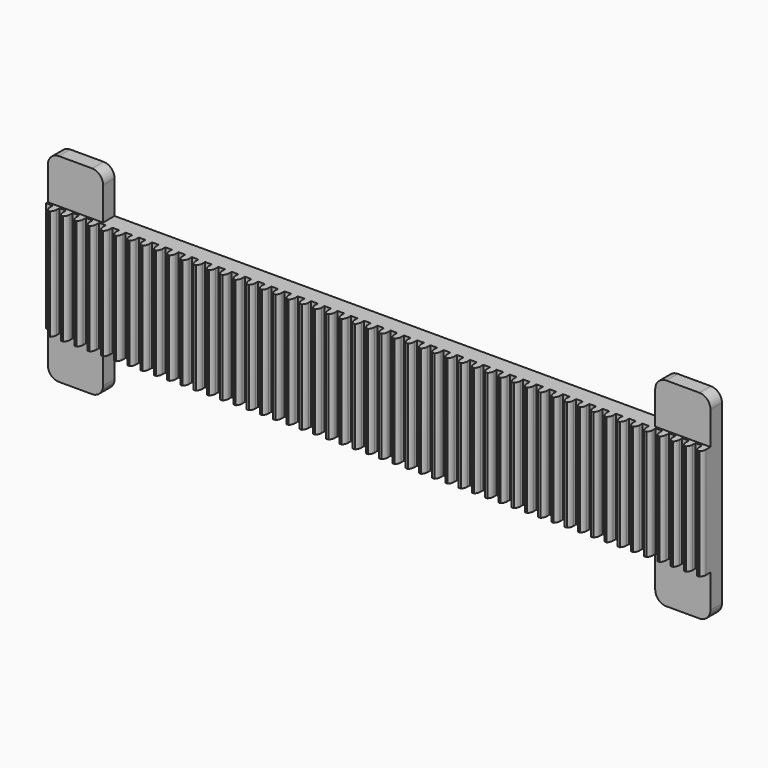
from build123d import *

# Parameters (mm, degrees)
F1_DEPTH = 19.05
F3_W     = 63.5
F3_H     = 50.8
F4_DEPTH = 2.54
F5_W     = 63.5
F5_H     = 50.8
F6_DEPTH = 2.54
F7_R     = 12.7
F9_DEPTH = 127


with BuildPart() as f1:
    # F0 (on Front) → F1 (new body)
    with BuildSketch(Plane.XZ):
        Polygon((0, 228.6), (0, 0), (63.5, 0), (63.5, 50.8), (698.5, 50.8), (698.5, 0), (762, 0), (762, 228.6), (698.5, 228.6), (698.5, 177.8), (63.5, 177.8), (63.5, 228.6), align=None)
    extrude(amount=F1_DEPTH)

    # F3 (on face) → F4 (cut)
    with BuildSketch(Plane.XZ.offset(19.05)):
        with Locations((31.75, 25.4)):
            Rectangle(F3_W, F3_H)
        Polygon((63.5, 228.6), (0, 228.6), (0, 177.8), (7.62, 177.8), (15.24, 177.8), (22.86, 177.8), (30.48, 177.8), (38.1, 177.8), (45.72, 177.8), (53.34, 177.8), (60.96, 177.8), (63.5, 177.8), align=None)
    extrude(amount=-F4_DEPTH, mode=Mode.SUBTRACT)

    # F5 (on face) → F6 (cut)
    with BuildSketch(Plane.XZ.offset(19.05)):
        with Locations((730.25, 203.2)):
            Rectangle(F5_W, F5_H)
        Polygon((762, 0), (762, 50.8), (701.04, 50.8), (698.5, 50.8), (698.5, 0), align=None)
    extrude(amount=-F6_DEPTH, mode=Mode.SUBTRACT)

    # F7
    f7_edges = [f1.edges().sort_by_distance(p)[0] for p in [
        (63.5, -8.255, 228.6),
        (0, -8.255, 228.6),
        (63.5, -8.255, 0),
        (0, -8.255, 0),
        (762, -8.255, 228.6),
        (698.5, -8.255, 228.6),
        (762, -8.255, 0),
        (698.5, -8.255, 0),
    ]]
    fillet(f7_edges, radius=F7_R)

    # F8 (on face) → F9 (join)
    with BuildSketch(Plane(origin=(0, 0, 50.8), x_dir=(1, 0, 0), z_dir=(0, 0, -1))):
        with BuildLine():
            Line((7.62, 21.393687), (7.62, 19.05))
            Line((7.62, 19.05), (15.24, 19.05))
            Line((15.24, 19.05), (15.24, 21.393687))
            Line((15.24, 21.393687), (15.24, 23.0124))
            ThreePointArc((15.24, 23.0124), (14.557493, 26.377139), (12.617857, 29.21))
            Line((12.617857, 29.21), (11.43, 29.21))
            Line((11.43, 29.21), (10.242143, 29.21))
            ThreePointArc((10.242143, 29.21), (8.302507, 26.377139), (7.62, 23.0124))
            Line((7.62, 23.0124), (7.62, 21.393687))
        make_face()
        with BuildLine():
            ThreePointArc((30.48, 23.0124), (29.797493, 26.377139), (27.857857, 29.21))
            Line((27.857857, 29.21), (25.482143, 29.21))
            ThreePointArc((25.482143, 29.21), (23.542507, 26.377139), (22.86, 23.0124))
            Line((22.86, 23.0124), (22.86, 19.05))
            Line((22.86, 19.05), (30.48, 19.05))
            Line((30.48, 19.05), (30.48, 23.0124))
        make_face()
        with BuildLine():
            ThreePointArc((45.72, 23.0124), (45.037493, 26.377139), (43.097857, 29.21))
            Line((43.097857, 29.21), (40.722143, 29.21))
            ThreePointArc((40.722143, 29.21), (38.782507, 26.377139), (38.1, 23.0124))
            Line((38.1, 23.0124), (38.1, 19.05))
            Line((38.1, 19.05), (45.72, 19.05))
            Line((45.72, 19.05), (45.72, 23.0124))
        make_face()
        with BuildLine():
            ThreePointArc((60.96, 23.0124), (60.277493, 26.377139), (58.337857, 29.21))
            Line((58.337857, 29.21), (55.962143, 29.21))
            ThreePointArc((55.962143, 29.21), (54.022507, 26.377139), (53.34, 23.0124))
            Line((53.34, 23.0124), (53.34, 19.05))
            Line((53.34, 19.05), (60.96, 19.05))
            Line((60.96, 19.05), (60.96, 23.0124))
        make_face()
        with BuildLine():
            ThreePointArc((76.2, 23.0124), (75.517493, 26.377139), (73.577857, 29.21))
            Line((73.577857, 29.21), (71.202143, 29.21))
            ThreePointArc((71.202143, 29.21), (69.262507, 26.377139), (68.58, 23.0124))
            Line((68.58, 23.0124), (68.58, 19.05))
            Line((68.58, 19.05), (76.2, 19.05))
            Line((76.2, 19.05), (76.2, 23.0124))
        make_face()
        with BuildLine():
            ThreePointArc((91.44, 23.0124), (90.757493, 26.377139), (88.817857, 29.21))
            Line((88.817857, 29.21), (86.442143, 29.21))
            ThreePointArc((86.442143, 29.21), (84.502507, 26.377139), (83.82, 23.0124))
            Line((83.82, 23.0124), (83.82, 19.05))
            Line((83.82, 19.05), (91.44, 19.05))
            Line((91.44, 19.05), (91.44, 23.0124))
        make_face()
        with BuildLine():
            ThreePointArc((106.68, 23.0124), (105.997493, 26.377139), (104.057857, 29.21))
            Line((104.057857, 29.21), (101.682143, 29.21))
            ThreePointArc((101.682143, 29.21), (99.742507, 26.377139), (99.06, 23.0124))
            Line((99.06, 23.0124), (99.06, 19.05))
            Line((99.06, 19.05), (106.68, 19.05))
            Line((106.68, 19.05), (106.68, 23.0124))
        make_face()
        with BuildLine():
            ThreePointArc((121.92, 23.0124), (121.237493, 26.377139), (119.297857, 29.21))
            Line((119.297857, 29.21), (116.922143, 29.21))
            ThreePointArc((116.922143, 29.21), (114.982507, 26.377139), (114.3, 23.0124))
            Line((114.3, 23.0124), (114.3, 19.05))
            Line((114.3, 19.05), (121.92, 19.05))
            Line((121.92, 19.05), (121.92, 23.0124))
        make_face()
        with BuildLine():
            ThreePointArc((137.16, 23.0124), (136.477493, 26.377139), (134.537857, 29.21))
            Line((134.537857, 29.21), (132.162143, 29.21))
            ThreePointArc((132.162143, 29.21), (130.222507, 26.377139), (129.54, 23.0124))
            Line((129.54, 23.0124), (129.54, 19.05))
            Line((129.54, 19.05), (137.16, 19.05))
            Line((137.16, 19.05), (137.16, 23.0124))
        make_face()
        with BuildLine():
            ThreePointArc((152.4, 23.0124), (151.717493, 26.377139), (149.777857, 29.21))
            Line((149.777857, 29.21), (147.402143, 29.21))
            ThreePointArc((147.402143, 29.21), (145.462507, 26.377139), (144.78, 23.0124))
            Line((144.78, 23.0124), (144.78, 19.05))
            Line((144.78, 19.05), (152.4, 19.05))
            Line((152.4, 19.05), (152.4, 23.0124))
        make_face()
        with BuildLine():
            ThreePointArc((167.64, 23.0124), (166.957493, 26.377139), (165.017857, 29.21))
            Line((165.017857, 29.21), (162.642143, 29.21))
            ThreePointArc((162.642143, 29.21), (160.702507, 26.377139), (160.02, 23.0124))
            Line((160.02, 23.0124), (160.02, 19.05))
            Line((160.02, 19.05), (167.64, 19.05))
            Line((167.64, 19.05), (167.64, 23.0124))
        make_face()
        with BuildLine():
            ThreePointArc((182.88, 23.0124), (182.197493, 26.377139), (180.257857, 29.21))
            Line((180.257857, 29.21), (177.882143, 29.21))
            ThreePointArc((177.882143, 29.21), (175.942507, 26.377139), (175.26, 23.0124))
            Line((175.26, 23.0124), (175.26, 19.05))
            Line((175.26, 19.05), (182.88, 19.05))
            Line((182.88, 19.05), (182.88, 23.0124))
        make_face()
        with BuildLine():
            ThreePointArc((198.12, 23.0124), (197.437493, 26.377139), (195.497857, 29.21))
            Line((195.497857, 29.21), (193.122143, 29.21))
            ThreePointArc((193.122143, 29.21), (191.182507, 26.377139), (190.5, 23.0124))
            Line((190.5, 23.0124), (190.5, 19.05))
            Line((190.5, 19.05), (198.12, 19.05))
            Line((198.12, 19.05), (198.12, 23.0124))
        make_face()
        with BuildLine():
            ThreePointArc((213.36, 23.0124), (212.677493, 26.377139), (210.737857, 29.21))
            Line((210.737857, 29.21), (208.362143, 29.21))
            ThreePointArc((208.362143, 29.21), (206.422507, 26.377139), (205.74, 23.0124))
            Line((205.74, 23.0124), (205.74, 19.05))
            Line((205.74, 19.05), (213.36, 19.05))
            Line((213.36, 19.05), (213.36, 23.0124))
        make_face()
        with BuildLine():
            ThreePointArc((228.6, 23.0124), (227.917493, 26.377139), (225.977857, 29.21))
            Line((225.977857, 29.21), (223.602143, 29.21))
            ThreePointArc((223.602143, 29.21), (221.662507, 26.377139), (220.98, 23.0124))
            Line((220.98, 23.0124), (220.98, 19.05))
            Line((220.98, 19.05), (228.6, 19.05))
            Line((228.6, 19.05), (228.6, 23.0124))
        make_face()
        with BuildLine():
            ThreePointArc((243.84, 23.0124), (243.157493, 26.377139), (241.217857, 29.21))
            Line((241.217857, 29.21), (238.842143, 29.21))
            ThreePointArc((238.842143, 29.21), (236.902507, 26.377139), (236.22, 23.0124))
            Line((236.22, 23.0124), (236.22, 19.05))
            Line((236.22, 19.05), (243.84, 19.05))
            Line((243.84, 19.05), (243.84, 23.0124))
        make_face()
        with BuildLine():
            ThreePointArc((259.08, 23.0124), (258.397493, 26.377139), (256.457857, 29.21))
            Line((256.457857, 29.21), (254.082143, 29.21))
            ThreePointArc((254.082143, 29.21), (252.142507, 26.377139), (251.46, 23.0124))
            Line((251.46, 23.0124), (251.46, 19.05))
            Line((251.46, 19.05), (259.08, 19.05))
            Line((259.08, 19.05), (259.08, 23.0124))
        make_face()
        with BuildLine():
            ThreePointArc((274.32, 23.0124), (273.637493, 26.377139), (271.697857, 29.21))
            Line((271.697857, 29.21), (269.322143, 29.21))
            ThreePointArc((269.322143, 29.21), (267.382507, 26.377139), (266.7, 23.0124))
            Line((266.7, 23.0124), (266.7, 19.05))
            Line((266.7, 19.05), (274.32, 19.05))
            Line((274.32, 19.05), (274.32, 23.0124))
        make_face()
        with BuildLine():
            ThreePointArc((289.56, 23.0124), (288.877493, 26.377139), (286.937857, 29.21))
            Line((286.937857, 29.21), (284.562143, 29.21))
            ThreePointArc((284.562143, 29.21), (282.622507, 26.377139), (281.94, 23.0124))
            Line((281.94, 23.0124), (281.94, 19.05))
            Line((281.94, 19.05), (289.56, 19.05))
            Line((289.56, 19.05), (289.56, 23.0124))
        make_face()
        with BuildLine():
            ThreePointArc((304.8, 23.0124), (304.117493, 26.377139), (302.177857, 29.21))
            Line((302.177857, 29.21), (299.802143, 29.21))
            ThreePointArc((299.802143, 29.21), (297.862507, 26.377139), (297.18, 23.0124))
            Line((297.18, 23.0124), (297.18, 19.05))
            Line((297.18, 19.05), (304.8, 19.05))
            Line((304.8, 19.05), (304.8, 23.0124))
        make_face()
        with BuildLine():
            ThreePointArc((320.04, 23.0124), (319.357493, 26.377139), (317.417857, 29.21))
            Line((317.417857, 29.21), (315.042143, 29.21))
            ThreePointArc((315.042143, 29.21), (313.102507, 26.377139), (312.42, 23.0124))
            Line((312.42, 23.0124), (312.42, 19.05))
            Line((312.42, 19.05), (320.04, 19.05))
            Line((320.04, 19.05), (320.04, 23.0124))
        make_face()
        with BuildLine():
            ThreePointArc((335.28, 23.0124), (334.597493, 26.377139), (332.657857, 29.21))
            Line((332.657857, 29.21), (330.282143, 29.21))
            ThreePointArc((330.282143, 29.21), (328.342507, 26.377139), (327.66, 23.0124))
            Line((327.66, 23.0124), (327.66, 19.05))
            Line((327.66, 19.05), (335.28, 19.05))
            Line((335.28, 19.05), (335.28, 23.0124))
        make_face()
        with BuildLine():
            ThreePointArc((350.52, 23.0124), (349.837493, 26.377139), (347.897857, 29.21))
            Line((347.897857, 29.21), (345.522143, 29.21))
            ThreePointArc((345.522143, 29.21), (343.582507, 26.377139), (342.9, 23.0124))
            Line((342.9, 23.0124), (342.9, 19.05))
            Line((342.9, 19.05), (350.52, 19.05))
            Line((350.52, 19.05), (350.52, 23.0124))
        make_face()
        with BuildLine():
            ThreePointArc((365.76, 23.0124), (365.077493, 26.377139), (363.137857, 29.21))
            Line((363.137857, 29.21), (360.762143, 29.21))
            ThreePointArc((360.762143, 29.21), (358.822507, 26.377139), (358.14, 23.0124))
            Line((358.14, 23.0124), (358.14, 19.05))
            Line((358.14, 19.05), (365.76, 19.05))
            Line((365.76, 19.05), (365.76, 23.0124))
        make_face()
        with BuildLine():
            ThreePointArc((381, 23.0124), (380.317493, 26.377139), (378.377857, 29.21))
            Line((378.377857, 29.21), (376.002143, 29.21))
            ThreePointArc((376.002143, 29.21), (374.062507, 26.377139), (373.38, 23.0124))
            Line((373.38, 23.0124), (373.38, 19.05))
            Line((373.38, 19.05), (381, 19.05))
            Line((381, 19.05), (381, 23.0124))
        make_face()
        with BuildLine():
            ThreePointArc((396.24, 23.0124), (395.557493, 26.377139), (393.617857, 29.21))
            Line((393.617857, 29.21), (391.242143, 29.21))
            ThreePointArc((391.242143, 29.21), (389.302507, 26.377139), (388.62, 23.0124))
            Line((388.62, 23.0124), (388.62, 19.05))
            Line((388.62, 19.05), (396.24, 19.05))
            Line((396.24, 19.05), (396.24, 23.0124))
        make_face()
        with BuildLine():
            ThreePointArc((411.48, 23.0124), (410.797493, 26.377139), (408.857857, 29.21))
            Line((408.857857, 29.21), (406.482143, 29.21))
            ThreePointArc((406.482143, 29.21), (404.542507, 26.377139), (403.86, 23.0124))
            Line((403.86, 23.0124), (403.86, 19.05))
            Line((403.86, 19.05), (411.48, 19.05))
            Line((411.48, 19.05), (411.48, 23.0124))
        make_face()
        with BuildLine():
            ThreePointArc((426.72, 23.0124), (426.037493, 26.377139), (424.097857, 29.21))
            Line((424.097857, 29.21), (421.722143, 29.21))
            ThreePointArc((421.722143, 29.21), (419.782507, 26.377139), (419.1, 23.0124))
            Line((419.1, 23.0124), (419.1, 19.05))
            Line((419.1, 19.05), (426.72, 19.05))
            Line((426.72, 19.05), (426.72, 23.0124))
        make_face()
        with BuildLine():
            ThreePointArc((441.96, 23.0124), (441.277493, 26.377139), (439.337857, 29.21))
            Line((439.337857, 29.21), (436.962143, 29.21))
            ThreePointArc((436.962143, 29.21), (435.022507, 26.377139), (434.34, 23.0124))
            Line((434.34, 23.0124), (434.34, 19.05))
            Line((434.34, 19.05), (441.96, 19.05))
            Line((441.96, 19.05), (441.96, 23.0124))
        make_face()
        with BuildLine():
            ThreePointArc((457.2, 23.0124), (456.517493, 26.377139), (454.577857, 29.21))
            Line((454.577857, 29.21), (452.202143, 29.21))
            ThreePointArc((452.202143, 29.21), (450.262507, 26.377139), (449.58, 23.0124))
            Line((449.58, 23.0124), (449.58, 19.05))
            Line((449.58, 19.05), (457.2, 19.05))
            Line((457.2, 19.05), (457.2, 23.0124))
        make_face()
        with BuildLine():
            ThreePointArc((472.44, 23.0124), (471.757493, 26.377139), (469.817857, 29.21))
            Line((469.817857, 29.21), (467.442143, 29.21))
            ThreePointArc((467.442143, 29.21), (465.502507, 26.377139), (464.82, 23.0124))
            Line((464.82, 23.0124), (464.82, 19.05))
            Line((464.82, 19.05), (472.44, 19.05))
            Line((472.44, 19.05), (472.44, 23.0124))
        make_face()
        with BuildLine():
            ThreePointArc((487.68, 23.0124), (486.997493, 26.377139), (485.057857, 29.21))
            Line((485.057857, 29.21), (482.682143, 29.21))
            ThreePointArc((482.682143, 29.21), (480.742507, 26.377139), (480.06, 23.0124))
            Line((480.06, 23.0124), (480.06, 19.05))
            Line((480.06, 19.05), (487.68, 19.05))
            Line((487.68, 19.05), (487.68, 23.0124))
        make_face()
        with BuildLine():
            ThreePointArc((502.92, 23.0124), (502.237493, 26.377139), (500.297857, 29.21))
            Line((500.297857, 29.21), (497.922143, 29.21))
            ThreePointArc((497.922143, 29.21), (495.982507, 26.377139), (495.3, 23.0124))
            Line((495.3, 23.0124), (495.3, 19.05))
            Line((495.3, 19.05), (502.92, 19.05))
            Line((502.92, 19.05), (502.92, 23.0124))
        make_face()
        with BuildLine():
            ThreePointArc((518.16, 23.0124), (517.477493, 26.377139), (515.537857, 29.21))
            Line((515.537857, 29.21), (513.162143, 29.21))
            ThreePointArc((513.162143, 29.21), (511.222507, 26.377139), (510.54, 23.0124))
            Line((510.54, 23.0124), (510.54, 19.05))
            Line((510.54, 19.05), (518.16, 19.05))
            Line((518.16, 19.05), (518.16, 23.0124))
        make_face()
        with BuildLine():
            ThreePointArc((533.4, 23.0124), (532.717493, 26.377139), (530.777857, 29.21))
            Line((530.777857, 29.21), (528.402143, 29.21))
            ThreePointArc((528.402143, 29.21), (526.462507, 26.377139), (525.78, 23.0124))
            Line((525.78, 23.0124), (525.78, 19.05))
            Line((525.78, 19.05), (533.4, 19.05))
            Line((533.4, 19.05), (533.4, 23.0124))
        make_face()
        with BuildLine():
            ThreePointArc((548.64, 23.0124), (547.957493, 26.377139), (546.017857, 29.21))
            Line((546.017857, 29.21), (543.642143, 29.21))
            ThreePointArc((543.642143, 29.21), (541.702507, 26.377139), (541.02, 23.0124))
            Line((541.02, 23.0124), (541.02, 19.05))
            Line((541.02, 19.05), (548.64, 19.05))
            Line((548.64, 19.05), (548.64, 23.0124))
        make_face()
        with BuildLine():
            ThreePointArc((563.88, 23.0124), (563.197493, 26.377139), (561.257857, 29.21))
            Line((561.257857, 29.21), (558.882143, 29.21))
            ThreePointArc((558.882143, 29.21), (556.942507, 26.377139), (556.26, 23.0124))
            Line((556.26, 23.0124), (556.26, 19.05))
            Line((556.26, 19.05), (563.88, 19.05))
            Line((563.88, 19.05), (563.88, 23.0124))
        make_face()
        with BuildLine():
            ThreePointArc((579.12, 23.0124), (578.437493, 26.377139), (576.497857, 29.21))
            Line((576.497857, 29.21), (574.122143, 29.21))
            ThreePointArc((574.122143, 29.21), (572.182507, 26.377139), (571.5, 23.0124))
            Line((571.5, 23.0124), (571.5, 19.05))
            Line((571.5, 19.05), (579.12, 19.05))
            Line((579.12, 19.05), (579.12, 23.0124))
        make_face()
        with BuildLine():
            ThreePointArc((594.36, 23.0124), (593.677493, 26.377139), (591.737857, 29.21))
            Line((591.737857, 29.21), (589.362143, 29.21))
            ThreePointArc((589.362143, 29.21), (587.422507, 26.377139), (586.74, 23.0124))
            Line((586.74, 23.0124), (586.74, 19.05))
            Line((586.74, 19.05), (594.36, 19.05))
            Line((594.36, 19.05), (594.36, 23.0124))
        make_face()
        with BuildLine():
            ThreePointArc((609.6, 23.0124), (608.917493, 26.377139), (606.977857, 29.21))
            Line((606.977857, 29.21), (604.602143, 29.21))
            ThreePointArc((604.602143, 29.21), (602.662507, 26.377139), (601.98, 23.0124))
            Line((601.98, 23.0124), (601.98, 19.05))
            Line((601.98, 19.05), (609.6, 19.05))
            Line((609.6, 19.05), (609.6, 23.0124))
        make_face()
        with BuildLine():
            ThreePointArc((624.84, 23.0124), (624.157493, 26.377139), (622.217857, 29.21))
            Line((622.217857, 29.21), (619.842143, 29.21))
            ThreePointArc((619.842143, 29.21), (617.902507, 26.377139), (617.22, 23.0124))
            Line((617.22, 23.0124), (617.22, 19.05))
            Line((617.22, 19.05), (624.84, 19.05))
            Line((624.84, 19.05), (624.84, 23.0124))
        make_face()
        with BuildLine():
            ThreePointArc((640.08, 23.0124), (639.397493, 26.377139), (637.457857, 29.21))
            Line((637.457857, 29.21), (635.082143, 29.21))
            ThreePointArc((635.082143, 29.21), (633.142507, 26.377139), (632.46, 23.0124))
            Line((632.46, 23.0124), (632.46, 19.05))
            Line((632.46, 19.05), (640.08, 19.05))
            Line((640.08, 19.05), (640.08, 23.0124))
        make_face()
        with BuildLine():
            ThreePointArc((655.32, 23.0124), (654.637493, 26.377139), (652.697857, 29.21))
            Line((652.697857, 29.21), (650.322143, 29.21))
            ThreePointArc((650.322143, 29.21), (648.382507, 26.377139), (647.7, 23.0124))
            Line((647.7, 23.0124), (647.7, 19.05))
            Line((647.7, 19.05), (655.32, 19.05))
            Line((655.32, 19.05), (655.32, 23.0124))
        make_face()
        with BuildLine():
            ThreePointArc((670.56, 23.0124), (669.877493, 26.377139), (667.937857, 29.21))
            Line((667.937857, 29.21), (665.562143, 29.21))
            ThreePointArc((665.562143, 29.21), (663.622507, 26.377139), (662.94, 23.0124))
            Line((662.94, 23.0124), (662.94, 19.05))
            Line((662.94, 19.05), (670.56, 19.05))
            Line((670.56, 19.05), (670.56, 23.0124))
        make_face()
        with BuildLine():
            ThreePointArc((685.8, 23.0124), (685.117493, 26.377139), (683.177857, 29.21))
            Line((683.177857, 29.21), (680.802143, 29.21))
            ThreePointArc((680.802143, 29.21), (678.862507, 26.377139), (678.18, 23.0124))
            Line((678.18, 23.0124), (678.18, 19.05))
            Line((678.18, 19.05), (685.8, 19.05))
            Line((685.8, 19.05), (685.8, 23.0124))
        make_face()
        with BuildLine():
            ThreePointArc((701.04, 23.0124), (700.357493, 26.377139), (698.417857, 29.21))
            Line((698.417857, 29.21), (696.042143, 29.21))
            ThreePointArc((696.042143, 29.21), (694.102507, 26.377139), (693.42, 23.0124))
            Line((693.42, 23.0124), (693.42, 19.05))
            Line((693.42, 19.05), (701.04, 19.05))
            Line((701.04, 19.05), (701.04, 23.0124))
        make_face()
        with BuildLine():
            ThreePointArc((716.28, 23.0124), (715.597493, 26.377139), (713.657857, 29.21))
            Line((713.657857, 29.21), (711.282143, 29.21))
            ThreePointArc((711.282143, 29.21), (709.342507, 26.377139), (708.66, 23.0124))
            Line((708.66, 23.0124), (708.66, 19.05))
            Line((708.66, 19.05), (716.28, 19.05))
            Line((716.28, 19.05), (716.28, 23.0124))
        make_face()
        with BuildLine():
            ThreePointArc((731.52, 23.0124), (730.837493, 26.377139), (728.897857, 29.21))
            Line((728.897857, 29.21), (726.522143, 29.21))
            ThreePointArc((726.522143, 29.21), (724.582507, 26.377139), (723.9, 23.0124))
            Line((723.9, 23.0124), (723.9, 19.05))
            Line((723.9, 19.05), (731.52, 19.05))
            Line((731.52, 19.05), (731.52, 23.0124))
        make_face()
        with BuildLine():
            ThreePointArc((746.76, 23.0124), (746.077493, 26.377139), (744.137857, 29.21))
            Line((744.137857, 29.21), (741.762143, 29.21))
            ThreePointArc((741.762143, 29.21), (739.822507, 26.377139), (739.14, 23.0124))
            Line((739.14, 23.0124), (739.14, 19.05))
            Line((739.14, 19.05), (746.76, 19.05))
            Line((746.76, 19.05), (746.76, 23.0124))
        make_face()
        with BuildLine():
            ThreePointArc((762, 23.0124), (761.317493, 26.377139), (759.377857, 29.21))
            Line((759.377857, 29.21), (757.002143, 29.21))
            ThreePointArc((757.002143, 29.21), (755.062507, 26.377139), (754.38, 23.0124))
            Line((754.38, 23.0124), (754.38, 19.05))
            Line((754.38, 19.05), (762, 19.05))
            Line((762, 19.05), (762, 23.0124))
        make_face()
    extrude(amount=-F9_DEPTH)


solid = f1.part
